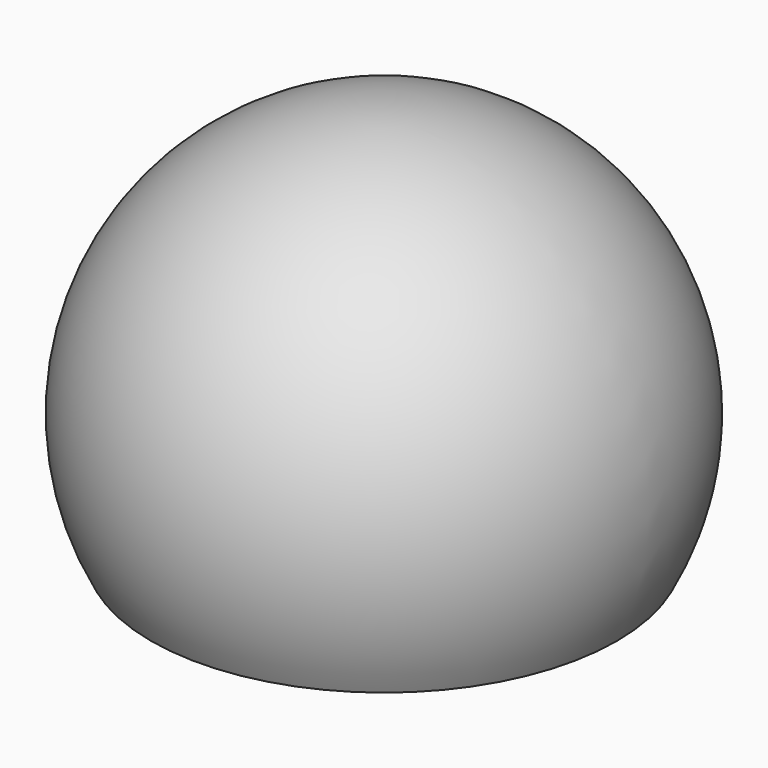
from build123d import *

# Parameters (mm, degrees)
BOX_W     = 20
BOX_H     = 20
BOX_DEPTH = 9


with BuildPart() as cube:
    # Box → Box (new body)
    with BuildSketch(Plane(origin=(-10, -10, 1), x_dir=(1, 0, 0), z_dir=(0, 0, 1))):
        with Locations((10, 10)):
            Rectangle(BOX_W, BOX_H)
    extrude(amount=BOX_DEPTH)


with BuildPart() as obj1:
    # Sphere → Sphere (revolve)
    with BuildSketch(Plane(origin=(0, 0, 15), x_dir=(1, 0, 0), z_dir=(0, -1, 0))):
        with BuildLine():
            ThreePointArc((0, -8.6), (8.6, 0), (0, 8.6))
            Line((0, 8.6), (0, -8.6))
        make_face()
    revolve(axis=Axis((0, 0, 15), (0, 0, 1)))


with BuildPart() as obj2:
    # Sphere001 → Sphere001 (revolve)
    with BuildSketch(Plane(origin=(0, 0, 15), x_dir=(1, 0, 0), z_dir=(0, -1, 0))):
        with BuildLine():
            ThreePointArc((0, -10.6), (10.6, 0), (0, 10.6))
            Line((0, 10.6), (0, -10.6))
        make_face()
    revolve(axis=Axis((0, 0, 15), (0, 0, 1)))

    # Cut: cut obj1
    add(obj1.part, mode=Mode.SUBTRACT)

    # Cut001: cut Cube
    add(cube.part, mode=Mode.SUBTRACT)


solid = obj2.part
